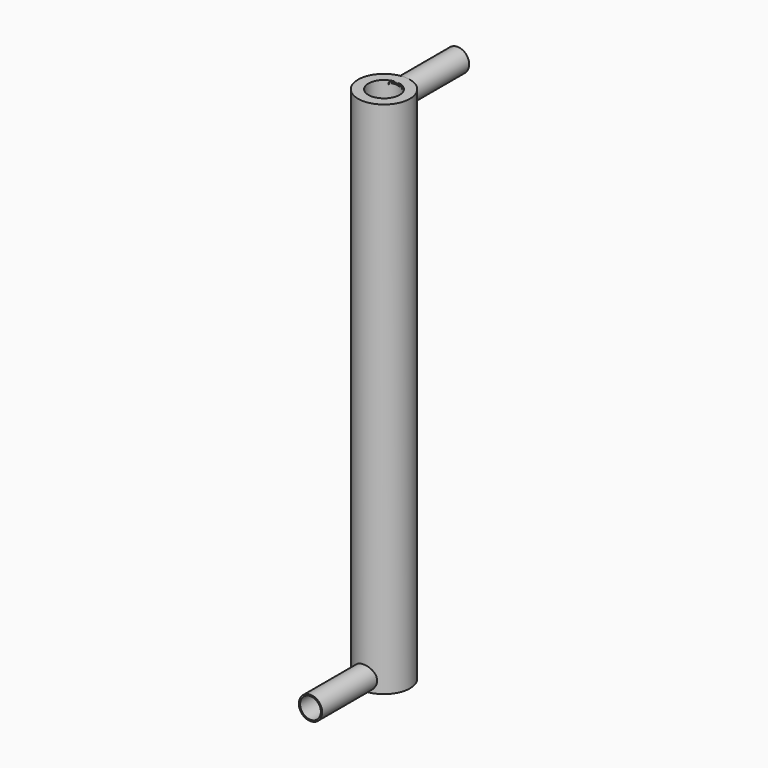
from build123d import *

# Parameters (mm, degrees)
F0_R     = 50
F0_R_2   = 30
F1_DEPTH = 1000
F2_R     = 22.5
F2_R_2   = 20
F3_DEPTH = 150


with BuildPart() as f1:
    # F0 (on Top) → F1 (new body)
    with BuildSketch(Plane.XY):
        Circle(F0_R)
        Circle(F0_R_2, mode=Mode.SUBTRACT)
    extrude(amount=F1_DEPTH)


with BuildPart() as f3:
    # F2 (on Front) → F3 (new body)
    with BuildSketch(Plane.XZ):
        Circle(F2_R)
        Circle(F2_R_2, mode=Mode.SUBTRACT)
    extrude(amount=F3_DEPTH)


with BuildPart() as f3_1:
    # F4: moved
    add(f3.part.moved(Location((0, -27, 22.5))))


with BuildPart() as f5_1:
    # F5: instance of F3
    add(f3_1.part.mirror(Plane.XZ))


with BuildPart() as f5_1_1:
    # F6: moved
    add(f5_1.part.moved(Location((0, 0, 955))))


solid = Compound([f1.part, f3_1.part, f5_1_1.part])
